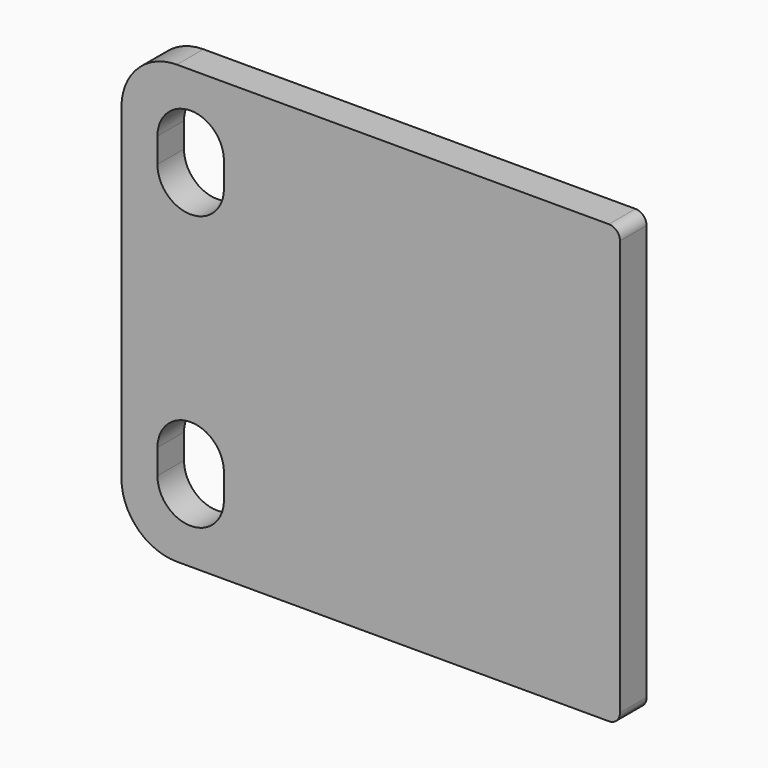
from build123d import *

# Parameters (mm, degrees)
F1_DEPTH = 6


with BuildPart() as f1:
    # F0 (on Front) → F1 (new body)
    with BuildSketch(Plane.XZ):
        with BuildLine():
            ThreePointArc((-45, -29.5), (-42.071068, -36.571068), (-35, -39.5))
            Line((-35, -39.5), (43, -39.5))
            ThreePointArc((43, -39.5), (44.414214, -38.914214), (45, -37.5))
            Line((45, -37.5), (45, 37.5))
            ThreePointArc((45, 37.5), (44.414214, 38.914214), (43, 39.5))
            Line((43, 39.5), (-35, 39.5))
            ThreePointArc((-35, 39.5), (-42.071068, 36.571068), (-45, 29.5))
            Line((-45, 29.5), (-45, -29.5))
        make_face()
        with BuildLine():
            ThreePointArc((-38.5, -22.5), (-32.5, -16.5), (-26.5, -22.5))
            Line((-26.5, -22.5), (-26.5, -27))
            ThreePointArc((-26.5, -27), (-32.5, -33), (-38.5, -27))
            Line((-38.5, -27), (-38.5, -22.5))
        make_face(mode=Mode.SUBTRACT)
        with BuildLine():
            ThreePointArc((-26.500294, 22.440581), (-32.52971, 16.500074), (-38.5, 22.5))
            Line((-38.5, 22.5), (-38.5, 27))
            ThreePointArc((-38.5, 27), (-32.499806, 32.999806), (-26.5, 26.999613))
            Line((-26.5, 26.999613), (-26.500287, 22.558645))
            ThreePointArc((-26.500287, 22.558645), (-26.5, 22.499613), (-26.500294, 22.440581))
        make_face(mode=Mode.SUBTRACT)
    extrude(amount=F1_DEPTH)


solid = f1.part
